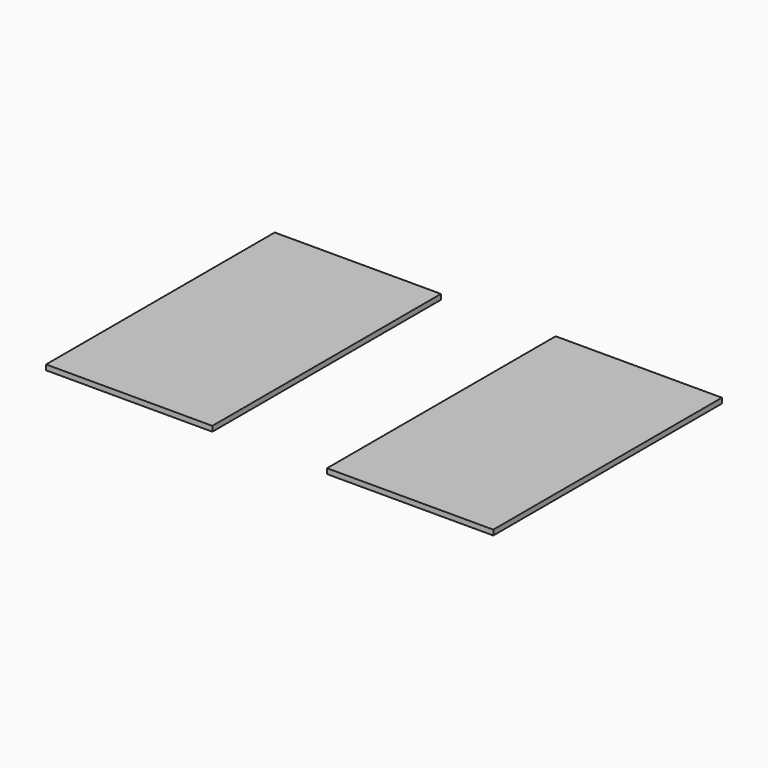
from build123d import *

# Parameters (mm, degrees)
F0_W     = 101.6
F0_H     = 174.625
F1_DEPTH = 3.175
F2_DEPTH = 3.175


with BuildPart() as f1:
    # F0 (on Top) → F1 (new body)
    with BuildSketch(Plane.XY):
        Rectangle(F0_W, F0_H)
    extrude(amount=F1_DEPTH)


with BuildPart() as f2:
    # F0 (on Top) → F2 (new body)
    with BuildSketch(Plane.XY):
        with Locations((171.682522, 0)):
            Rectangle(F0_W, F0_H)
    extrude(amount=F2_DEPTH)


solid = Compound([f1.part, f2.part])
